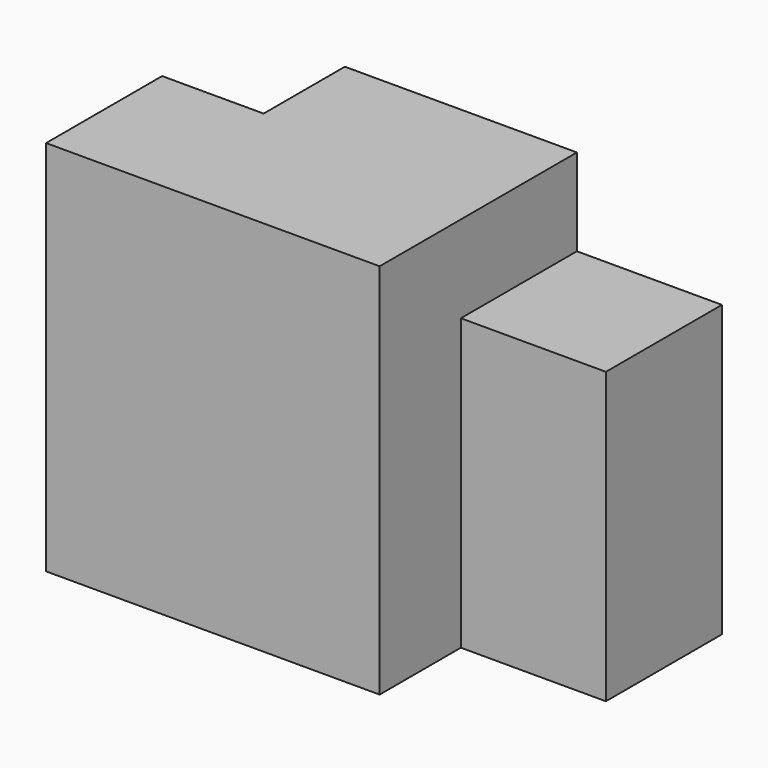
from build123d import *

# Parameters (mm, degrees)
F0_W     = 66.04
F0_H     = 50.8
F1_DEPTH = 25.4
F2_W     = 40.64
F2_H     = 25.4
F2_W_2   = 25.4
F3_DEPTH = 17.78
F4_W     = 40.64
F4_H     = 43.18
F5_DEPTH = 15.24
F6_W     = 25.4
F6_H     = 25.4
F7_DEPTH = 17.78
F8_W     = 25.4
F8_H     = 66.04
F9_DEPTH = 17.78


with BuildPart() as f1:
    # F0 (on Front) → F1 (new body)
    with BuildSketch(Plane.XZ):
        with Locations((-47.104301, -14.145544)):
            Rectangle(F0_W, F0_H)
    extrude(amount=-F1_DEPTH)

    # F2 (on face) → F3 (join)
    with BuildSketch(Plane.XZ):
        with Locations((-59.804301, -1.445544)):
            Rectangle(F2_W, F2_H)
        with Locations((-59.804301, -26.845544)):
            Rectangle(F2_W, F2_H)
        with Locations((-26.784301, -1.445544)):
            Rectangle(F2_W_2, F2_H)
    extrude(amount=F3_DEPTH)

    # F4 (on face) → F5 (join)
    with BuildSketch(Plane.XY.offset(11.254456)):
        with Locations((-59.804301, 3.81)):
            Rectangle(F4_W, F4_H)
    extrude(amount=F5_DEPTH)

    # F6 (on face) → F7 (cut)
    with BuildSketch(Plane.XZ.offset(17.78)):
        with Locations((-26.784301, -1.445544)):
            Rectangle(F6_W, F6_H)
    extrude(amount=-F7_DEPTH, mode=Mode.SUBTRACT)

    # F8 (on face) → F9 (join)
    with BuildSketch(Plane(origin=(-80.124301, 0, 0), x_dir=(0, -1, 0), z_dir=(-1, 0, 0))):
        with Locations((5.08, -6.525544)):
            Rectangle(F8_W, F8_H)
    extrude(amount=F9_DEPTH)


solid = f1.part
